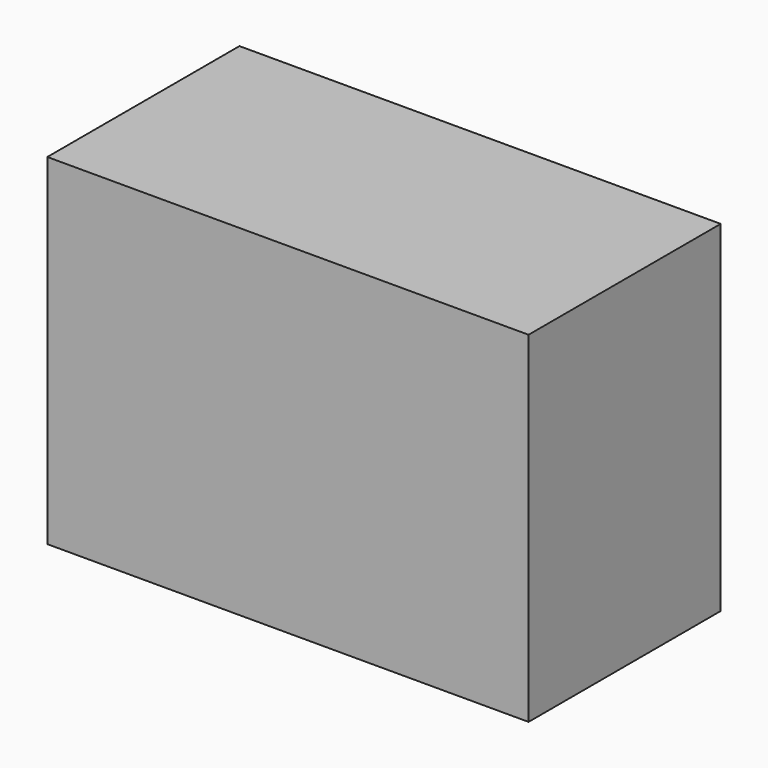
from build123d import *

# Parameters (mm, degrees)
F0_W     = 137.720808
F0_H     = 68.725146
F1_DEPTH = 97.536
F2_R     = 16.160602
F3_DEPTH = 141.478


with BuildPart() as f1:
    # F0 (on Top) → F1 (new body)
    with BuildSketch(Plane.XY):
        with Locations((68.860404, -34.362573)):
            Rectangle(F0_W, F0_H)
    extrude(amount=F1_DEPTH)

    # F2 (on face) → F3 (join)
    with BuildSketch(Plane.YZ.offset(137.720808)):
        with Locations((-33.2084, 44.185586)):
            Circle(F2_R)
    extrude(amount=-F3_DEPTH)


solid = f1.part
